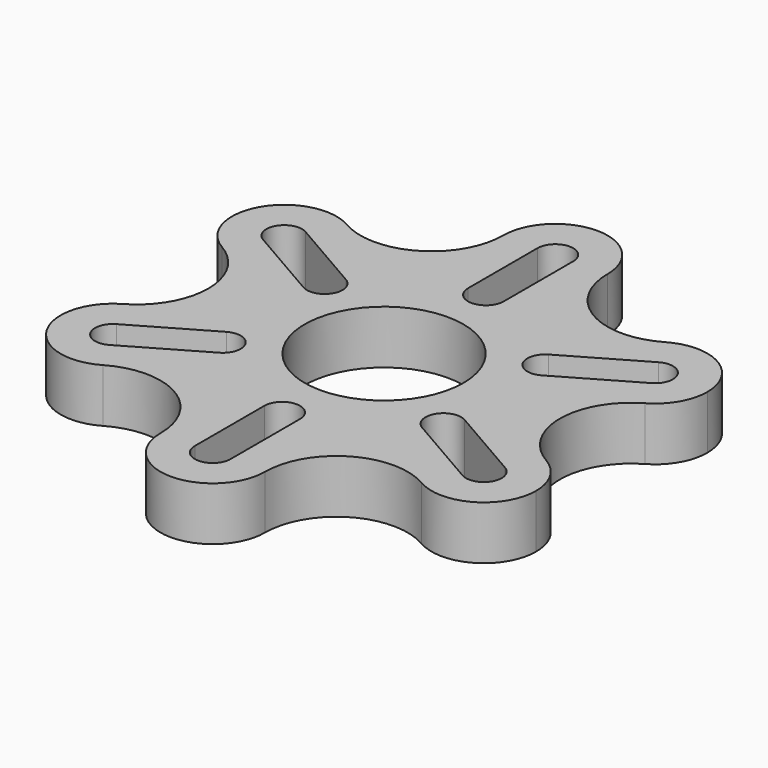
from build123d import *

# Parameters (mm, degrees)
F0_R     = 11.125
F1_DEPTH = 7.5
F3_DEPTH = 25


with BuildPart() as f1:
    # F0 (on Top) → F1 (new body)
    with BuildSketch(Plane.XY):
        with BuildLine():
            ThreePointArc((7.3205080757, 30), (0, 22.6794919243), (-7.3205080757, 30))
            ThreePointArc((-7.3205080757, 30), (-12.3205080803, 21.3397459595), (-22.3205080849, 21.3397459675))
            ThreePointArc((-22.3205080849, 21.3397459675), (-19.641016154, 18.6602540424), (-18.6602540378, 15))
            ThreePointArc((-18.6602540378, 15), (-22.3205080792, 8.6602540358), (-29.6410161584, 8.6602540419))
            ThreePointArc((-29.6410161584, 8.6602540419), (-25.9807621156, 5.0000000035), (-24.6410161514, 0))
            ThreePointArc((-24.6410161514, 0), (-25.9807621131, -4.9999999992), (-29.6410161498, -8.660254037))
            ThreePointArc((-29.6410161498, -8.660254037), (-22.3205080749, -8.6602540383), (-18.6602540378, -15))
            ThreePointArc((-18.6602540378, -15), (-19.6410161418, -18.6602540212), (-22.3205080425, -21.339745943))
            ThreePointArc((-22.3205080425, -21.339745943), (-12.3205080591, -21.3397459717), (-7.3205080757, -30))
            ThreePointArc((-7.3205080757, -30), (0, -22.6794919243), (7.3205080757, -30))
            ThreePointArc((7.3205080757, -30), (12.3205080629, -21.3397459695), (22.3205080502, -21.3397459474))
            ThreePointArc((22.3205080502, -21.3397459474), (19.6410161514, -11.3397459622), (29.6410161259, -8.6602540231))
            ThreePointArc((29.6410161259, -8.6602540231), (24.6410161514, -3.02e-08), (29.6410160736, 8.6602539929))
            ThreePointArc((29.6410160736, 8.6602539929), (19.641016124, 11.3397460095), (22.3205080926, 21.3397459719))
            ThreePointArc((22.3205080926, 21.3397459719), (12.3205080841, 21.3397459573), (7.3205080757, 30))
        make_face()
        Circle(F0_R, mode=Mode.SUBTRACT)
        with BuildLine():
            Line((7.3205080757, 30), (-7.3205080757, 30))
            ThreePointArc((-7.3205080757, 30), (0, 22.6794919243), (7.3205080757, 30))
        make_face()
        with BuildLine():
            ThreePointArc((7.3205080757, 30), (0, 37.3205080757), (-7.3205080757, 30))
            Line((-7.3205080757, 30), (7.3205080757, 30))
        make_face()
        with BuildLine():
            ThreePointArc((-18.6602540378, 15), (-19.641016154, 18.6602540424), (-22.3205080849, 21.3397459675))
            Line((-22.3205080757, 21.3397459622), (-29.6410161514, 8.6602540378))
            ThreePointArc((-29.6410161584, 8.6602540419), (-22.3205080792, 8.6602540358), (-18.6602540378, 15))
        make_face()
        with BuildLine():
            Line((-29.6410161514, 8.6602540378), (-22.3205080757, 21.3397459622))
            ThreePointArc((-22.3205080849, 21.3397459675), (-32.3205080763, 18.6602540368), (-29.6410161584, 8.6602540419))
        make_face()
        with BuildLine():
            ThreePointArc((-18.6602540378, -15), (-22.3205080749, -8.6602540383), (-29.6410161498, -8.660254037))
            Line((-29.6410161514, -8.6602540378), (-22.3205080757, -21.3397459622))
            ThreePointArc((-22.3205080425, -21.339745943), (-19.6410161418, -18.6602540212), (-18.6602540378, -15))
        make_face()
        with BuildLine():
            Line((-22.3205080757, -21.3397459622), (-29.6410161514, -8.6602540378))
            ThreePointArc((-29.6410161498, -8.660254037), (-32.3205080665, -18.6602540537), (-22.3205080425, -21.339745943))
        make_face()
        with BuildLine():
            Line((7.3205080757, -30), (-7.3205080757, -30))
            ThreePointArc((-7.3205080757, -30), (0, -37.3205080757), (7.3205080757, -30))
        make_face()
        with BuildLine():
            ThreePointArc((7.3205080757, -30), (0, -22.6794919243), (-7.3205080757, -30))
            Line((-7.3205080757, -30), (7.3205080757, -30))
        make_face()
        with BuildLine():
            Line((22.3205080757, -21.3397459622), (29.6410161514, -8.6602540378))
            ThreePointArc((29.6410161259, -8.6602540231), (19.6410161514, -11.3397459622), (22.3205080502, -21.3397459474))
        make_face()
        with BuildLine():
            ThreePointArc((33.3012701892, -15), (32.3205080683, -11.3397459494), (29.6410161259, -8.6602540231))
            Line((29.6410161514, -8.6602540378), (22.3205080757, -21.3397459622))
            ThreePointArc((22.3205080502, -21.3397459474), (29.6410161386, -21.3397459695), (33.3012701892, -15))
        make_face()
        with BuildLine():
            Line((29.6410161514, 8.6602540378), (22.3205080757, 21.3397459622))
            ThreePointArc((22.3205080926, 21.3397459719), (19.641016124, 11.3397460095), (29.6410160736, 8.6602539929))
        make_face()
        with BuildLine():
            ThreePointArc((33.3012701892, 15), (29.6410161598, 21.3397459573), (22.3205080926, 21.3397459719))
            Line((22.3205080757, 21.3397459622), (29.6410161514, 8.6602540378))
            ThreePointArc((29.6410160736, 8.6602539929), (32.3205080532, 11.3397459232), (33.3012701892, 15))
        make_face()
    extrude(amount=F1_DEPTH)

    # F2 (on face) → F3 (cut)
    with BuildSketch(Plane.XY.offset(7.5)):
        with BuildLine():
            ThreePointArc((-2.5, 17.8399104625), (0, 15.3399104625), (2.5, 17.8399104625))
            ThreePointArc((2.5, 17.8399104625), (0, 20.3399104625), (-2.5, 17.8399104625))
        make_face()
        with BuildLine():
            Line((2.5, 17.8399104625), (2.5, 30))
            ThreePointArc((2.5, 30), (0, 27.5), (-2.5, 30))
            Line((-2.5, 30), (-2.5, 17.8399104625))
            ThreePointArc((-2.5, 17.8399104625), (0, 20.3399104625), (2.5, 17.8399104625))
        make_face()
        with BuildLine():
            ThreePointArc((-2.5, 30), (0, 27.5), (2.5, 30))
            ThreePointArc((2.5, 30), (0, 32.5), (-2.5, 30))
        make_face()
        with BuildLine():
            ThreePointArc((-24.7307621135, 17.1650635095), (-23.8156986041, 16.25), (-23.4807621135, 15))
            ThreePointArc((-23.4807621135, 15), (-24.7307621135, 12.8349364905), (-27.2307621135, 12.8349364905))
            Line((-27.2307621135, 12.8349364905), (-16.6998156618, 6.7548917218))
            ThreePointArc((-16.6998156618, 6.7548917218), (-17.6148791712, 10.1699552312), (-14.1998156618, 11.0850187407))
            Line((-14.1998156618, 11.0850187407), (-24.7307621135, 17.1650635095))
        make_face()
        with BuildLine():
            ThreePointArc((-12.9498156618, 8.9199552312), (-13.2847521523, 10.1699552312), (-14.1998156618, 11.0850187407))
            ThreePointArc((-14.1998156618, 11.0850187407), (-17.6148791712, 10.1699552312), (-16.6998156618, 6.7548917218))
            ThreePointArc((-16.6998156618, 6.7548917218), (-14.1998156618, 6.7548917218), (-12.9498156618, 8.9199552312))
        make_face()
        with BuildLine():
            ThreePointArc((-27.2307621135, 12.8349364905), (-24.7307621135, 12.8349364905), (-23.4807621135, 15))
            ThreePointArc((-23.4807621135, 15), (-23.8156986041, 16.25), (-24.7307621135, 17.1650635095))
            ThreePointArc((-24.7307621135, 17.1650635095), (-28.145825623, 16.25), (-27.2307621135, 12.8349364905))
        make_face()
        with BuildLine():
            ThreePointArc((-27.2307621135, -12.8349364905), (-24.7307621135, -12.8349364905), (-23.4807621135, -15))
            ThreePointArc((-23.4807621135, -15), (-23.8156986041, -16.25), (-24.7307621135, -17.1650635095))
            Line((-24.7307621135, -17.1650635095), (-14.1998156618, -11.0850187407))
            ThreePointArc((-14.1998156618, -11.0850187407), (-17.6148791712, -10.1699552312), (-16.6998156618, -6.7548917218))
            Line((-16.6998156618, -6.7548917218), (-27.2307621135, -12.8349364905))
        make_face()
        with BuildLine():
            ThreePointArc((-12.9498156618, -8.9199552312), (-14.1998156618, -6.7548917218), (-16.6998156618, -6.7548917218))
            ThreePointArc((-16.6998156618, -6.7548917218), (-17.6148791712, -10.1699552312), (-14.1998156618, -11.0850187407))
            ThreePointArc((-14.1998156618, -11.0850187407), (-13.2847521523, -10.1699552312), (-12.9498156618, -8.9199552312))
        make_face()
        with BuildLine():
            ThreePointArc((-24.7307621135, -17.1650635095), (-23.8156986041, -16.25), (-23.4807621135, -15))
            ThreePointArc((-23.4807621135, -15), (-24.7307621135, -12.8349364905), (-27.2307621135, -12.8349364905))
            ThreePointArc((-27.2307621135, -12.8349364905), (-28.145825623, -16.25), (-24.7307621135, -17.1650635095))
        make_face()
        with BuildLine():
            ThreePointArc((-2.5, -30), (0, -27.5), (2.5, -30))
            Line((2.5, -30), (2.5, -17.8399104625))
            ThreePointArc((2.5, -17.8399104625), (0, -20.3399104625), (-2.5, -17.8399104625))
            Line((-2.5, -17.8399104625), (-2.5, -30))
        make_face()
        with BuildLine():
            ThreePointArc((-2.5, -17.8399104625), (0, -20.3399104625), (2.5, -17.8399104625))
            ThreePointArc((2.5, -17.8399104625), (0, -15.3399104625), (-2.5, -17.8399104625))
        make_face()
        with BuildLine():
            ThreePointArc((-2.5, -30), (0, -32.5), (2.5, -30))
            ThreePointArc((2.5, -30), (0, -27.5), (-2.5, -30))
        make_face()
        with BuildLine():
            ThreePointArc((24.7307621135, -17.1650635095), (23.8156986041, -13.75), (27.2307621135, -12.8349364905))
            Line((27.2307621135, -12.8349364905), (16.6998156618, -6.7548917218))
            ThreePointArc((16.6998156618, -6.7548917218), (17.6148791712, -7.6699552312), (17.9498156618, -8.9199552312))
            ThreePointArc((17.9498156618, -8.9199552312), (16.6998156618, -11.0850187407), (14.1998156618, -11.0850187407))
            Line((14.1998156618, -11.0850187407), (24.7307621135, -17.1650635095))
        make_face()
        with BuildLine():
            ThreePointArc((17.9498156618, -8.9199552312), (17.6148791712, -7.6699552312), (16.6998156618, -6.7548917218))
            ThreePointArc((16.6998156618, -6.7548917218), (13.2847521523, -7.6699552312), (14.1998156618, -11.0850187407))
            ThreePointArc((14.1998156618, -11.0850187407), (16.6998156618, -11.0850187407), (17.9498156618, -8.9199552312))
        make_face()
        with BuildLine():
            ThreePointArc((24.7307621135, -17.1650635095), (27.2307621135, -17.1650635095), (28.4807621135, -15))
            ThreePointArc((28.4807621135, -15), (28.145825623, -13.75), (27.2307621135, -12.8349364905))
            ThreePointArc((27.2307621135, -12.8349364905), (23.8156986041, -13.75), (24.7307621135, -17.1650635095))
        make_face()
        with BuildLine():
            ThreePointArc((27.2307621135, 12.8349364905), (23.8156986041, 13.75), (24.7307621135, 17.1650635095))
            Line((24.7307621135, 17.1650635095), (14.1998156618, 11.0850187407))
            ThreePointArc((14.1998156618, 11.0850187407), (16.6998156618, 11.0850187407), (17.9498156618, 8.9199552312))
            ThreePointArc((17.9498156618, 8.9199552312), (17.6148791712, 7.6699552312), (16.6998156618, 6.7548917218))
            Line((16.6998156618, 6.7548917218), (27.2307621135, 12.8349364905))
        make_face()
        with BuildLine():
            ThreePointArc((17.9498156618, 8.9199552312), (16.6998156618, 11.0850187407), (14.1998156618, 11.0850187407))
            ThreePointArc((14.1998156618, 11.0850187407), (13.2847521523, 7.6699552312), (16.6998156618, 6.7548917218))
            ThreePointArc((16.6998156618, 6.7548917218), (17.6148791712, 7.6699552312), (17.9498156618, 8.9199552312))
        make_face()
        with BuildLine():
            ThreePointArc((27.2307621135, 12.8349364905), (28.145825623, 13.75), (28.4807621135, 15))
            ThreePointArc((28.4807621135, 15), (27.2307621135, 17.1650635095), (24.7307621135, 17.1650635095))
            ThreePointArc((24.7307621135, 17.1650635095), (23.8156986041, 13.75), (27.2307621135, 12.8349364905))
        make_face()
    extrude(amount=-F3_DEPTH, mode=Mode.SUBTRACT)


solid = f1.part
